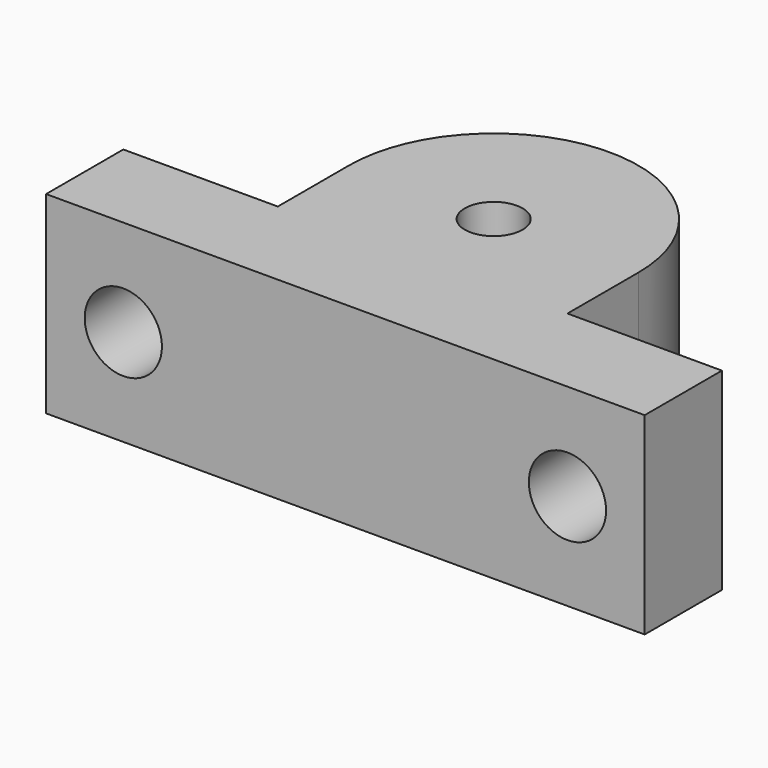
from build123d import *

# Parameters (mm, degrees)
F0_W       = 3
F0_H       = 10
F1_DEPTH   = 20
F2_D       = 6
F5_D       = 8
F5_ON_F4_D = 8


with BuildPart() as f1:
    # F0 (on Top) → F1 (new body)
    with BuildSketch(Plane.XY):
        with BuildLine():
            ThreePointArc((-12.3592070943, 8.5), (-14.3245960923, 4.4503872632), (-15, 0))
            Line((-15, 0), (-9.5, 0))
            ThreePointArc((-9.5, 0), (-8.0794519161, 4.9972449146), (-4.2426406871, 8.5))
            Line((-4.2426406871, 8.5), (-12.3592070943, 8.5))
        make_face()
        with BuildLine():
            Line((4.2426406871, 8.5), (12.3592070943, 8.5))
            ThreePointArc((12.3592070943, 8.5), (0.1020002099, 14.9996531946), (-12.2424665449, 8.667295593))
            ThreePointArc((-12.2424665449, 8.667295593), (-12.301121226, 8.5838462581), (-12.3592070943, 8.5))
            Line((-12.3592070943, 8.5), (-4.2426406871, 8.5))
            ThreePointArc((-4.2426406871, 8.5), (0, 9.5), (4.2426406871, 8.5))
        make_face()
        with BuildLine():
            Line((-9.5, 0), (9.5, 0))
            ThreePointArc((9.5, 0), (8.0794519161, 4.9972449146), (4.2426406871, 8.5))
            Line((4.2426406871, 8.5), (-4.2426406871, 8.5))
            ThreePointArc((-4.2426406871, 8.5), (-8.0794519161, 4.9972449146), (-9.5, 0))
        make_face()
        with BuildLine():
            Line((-4.2426406871, 8.5), (4.2426406871, 8.5))
            ThreePointArc((4.2426406871, 8.5), (0, 9.5), (-4.2426406871, 8.5))
        make_face()
        with BuildLine():
            Line((9.5, 0), (15, 0))
            ThreePointArc((15, 0), (14.3245960923, 4.4503872632), (12.3592070943, 8.5))
            Line((12.3592070943, 8.5), (4.2426406871, 8.5))
            ThreePointArc((4.2426406871, 8.5), (8.0794519161, 4.9972449146), (9.5, 0))
        make_face()
        with BuildLine():
            ThreePointArc((-9.5, 0), (0, -9.5), (9.5, 0))
            Line((9.5, 0), (-9.5, 0))
        make_face()
        with BuildLine():
            Line((-11, -19.2), (11, -19.2))
            Line((11, -19.2), (11, -9.2))
            Line((11, -9.2), (15, -9.2))
            Line((15, -9.2), (15, 0))
            Line((15, 0), (9.5, 0))
            ThreePointArc((9.5, 0), (0, -9.5), (-9.5, 0))
            Line((-9.5, 0), (-15, 0))
            Line((-15, 0), (-15, -9.2))
            Line((-15, -9.2), (-11, -9.2))
            Line((-11, -9.2), (-11, -19.2))
        make_face()
        Polygon((-28, -19.2), (-11, -19.2), (-11, -9.2), (-15, -9.2), (-28, -9.2), align=None)
        with Locations((-29.5, -14.2)):
            Rectangle(F0_W, F0_H)
        Polygon((11, -19.2), (28, -19.2), (28, -9.2), (15, -9.2), (11, -9.2), align=None)
        with Locations((29.5, -14.2)):
            Rectangle(F0_W, F0_H)
    extrude(amount=-F1_DEPTH)

    # F2 (through all)
    with Locations(Plane.XY):
        with Locations((0, 0)):
            Hole(F2_D / 2)

    # F5 (through all)
    with Locations(Plane(origin=(0, -9.2, 0), x_dir=(-1, 0, 0), z_dir=(0, 1, 0))):
        with Locations((-23, -10)):
            Hole(F5_D / 2)

    # F5 on F4 (through all)
    with Locations(Plane(origin=(0, -9.2, 0), x_dir=(-1, 0, 0), z_dir=(0, 1, 0))):
        with Locations((23, -10)):
            Hole(F5_ON_F4_D / 2)


solid = f1.part
